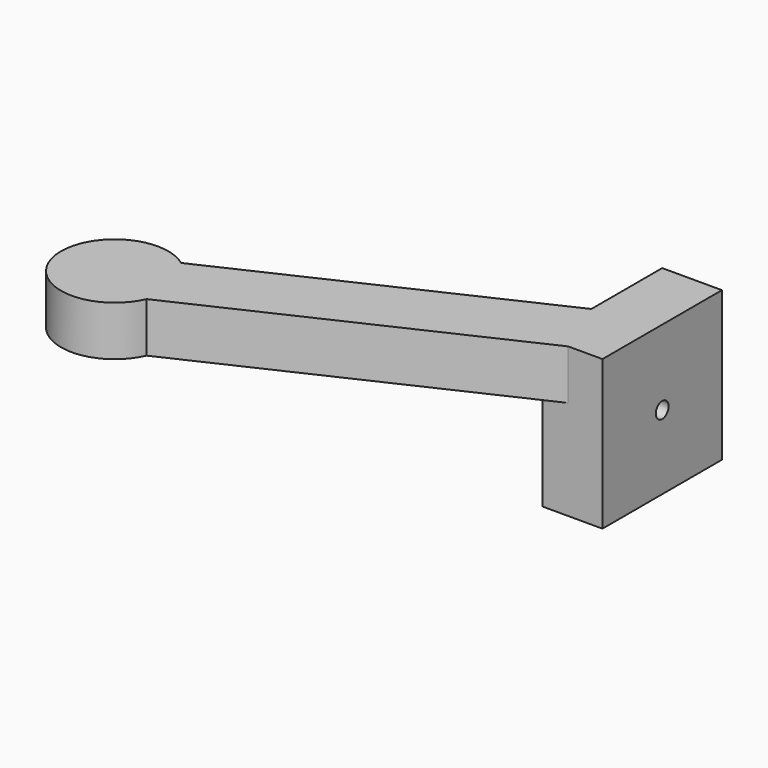
from build123d import *

# Parameters (mm, degrees)
SKETCH_W        = 12
SKETCH_H        = 30
PAD_DEPTH       = 30
PAD001_DEPTH    = 10
SKETCH002_R     = 10.776267
PAD002_DEPTH    = 10
SKETCH004_R     = 3
POCKET001_DEPTH = 3
SKETCH005_R     = 1.6
POCKET_DEPTH    = 9.001


with BuildPart() as part:
    # Sketch → Pad (new body)
    with BuildSketch(Plane.XY):
        Rectangle(SKETCH_W, SKETCH_H)
    extrude(amount=PAD_DEPTH)

    # Sketch001 → Pad001 (join)
    with BuildSketch(Plane.XY.offset(30)):
        Polygon((0, 0), (-73.854295, -34.438823), (-73.854295, -49.021726), (0, -14.582903), align=None)
    extrude(amount=-PAD001_DEPTH)

    # Sketch002 → Pad002 (join)
    with BuildSketch(Plane.XY.offset(30)):
        with Locations((-72.459145, -39.435551)):
            Circle(SKETCH002_R)
    extrude(amount=-PAD002_DEPTH)

    # Sketch004 → Pocket001 (cut)
    with BuildSketch(Plane.YZ.offset(-6)):
        with Locations((0, 14.871989)):
            Circle(SKETCH004_R)
    extrude(amount=POCKET001_DEPTH, mode=Mode.SUBTRACT)

    # Sketch005 → Pocket (cut, through all)
    with BuildSketch(Plane.YZ.offset(-3)):
        with Locations((0, 14.898449)):
            Circle(SKETCH005_R)
    extrude(amount=POCKET_DEPTH, mode=Mode.SUBTRACT)


solid = part.part
